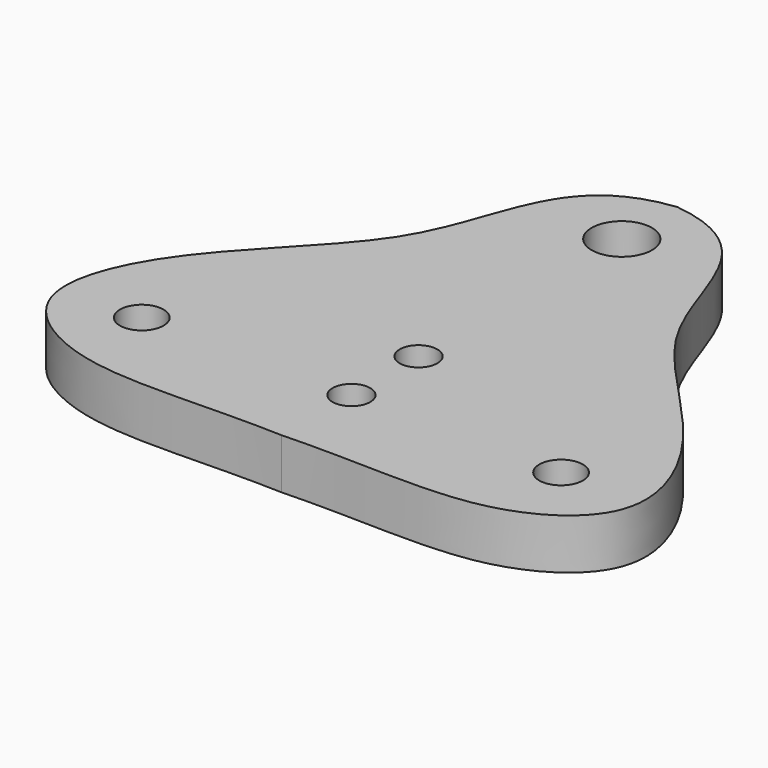
from build123d import *

# Parameters (mm, degrees)
F0_R     = 2.6
F0_R_2   = 2.25
F0_R_3   = 3.6
F1_DEPTH = 6


with BuildPart() as f1:
    # F0 (on Top) → F1 (new body)
    with BuildSketch(Plane.XY):
        with BuildLine():
            add(Edge.make_bspline(
                [(12.3816564046, 10.9933634271), (19.3595638757, 10.1792579399), (24.5360108363, 2.6425417879), (27.446875068, -11.0966661954), (43.4891807358, -24.3979927013), (49.6858011865, -40.3289697108), (35.7526995371, -49.6009690165), (22.2505851059, -47.6014968802), (12.3816564046, -47.9608047333)],
                knots=[0, 0, 0, 0, 0.1562933386, 0.3068522442, 0.4951740903, 0.6509751474, 0.7965649178, 1, 1, 1, 1], degree=3))
            add(Edge.make_bspline(
                [(12.3816564046, 10.9933634271), (5.4037489334, 10.1792579399), (0.2273019728, 2.6425417879), (-2.6835622588, -11.0966661954), (-18.7258679267, -24.3979927013), (-24.9224883773, -40.3289697108), (-10.9893867279, -49.6009690165), (2.5127277033, -47.6014968802), (12.3816564046, -47.9608047333)],
                knots=[0, 0, 0, 0, 0.1562933386, 0.3068522442, 0.4951740903, 0.6509751474, 0.7965649178, 1, 1, 1, 1], degree=3))
        make_face()
        with Locations((-12.6183435954, -37.5717511536)):
            Circle(F0_R, mode=Mode.SUBTRACT)
        with Locations((12.3816564046, -37.5717511536)):
            Circle(F0_R_2, mode=Mode.SUBTRACT)
        with Locations((37.3816564046, -37.5717511536)):
            Circle(F0_R, mode=Mode.SUBTRACT)
        with Locations((12.3816564046, -27.5717511536)):
            Circle(F0_R_2, mode=Mode.SUBTRACT)
        with Locations((12.3816564046, 2.7282488464)):
            Circle(F0_R_3, mode=Mode.SUBTRACT)
    extrude(amount=F1_DEPTH)


solid = f1.part
